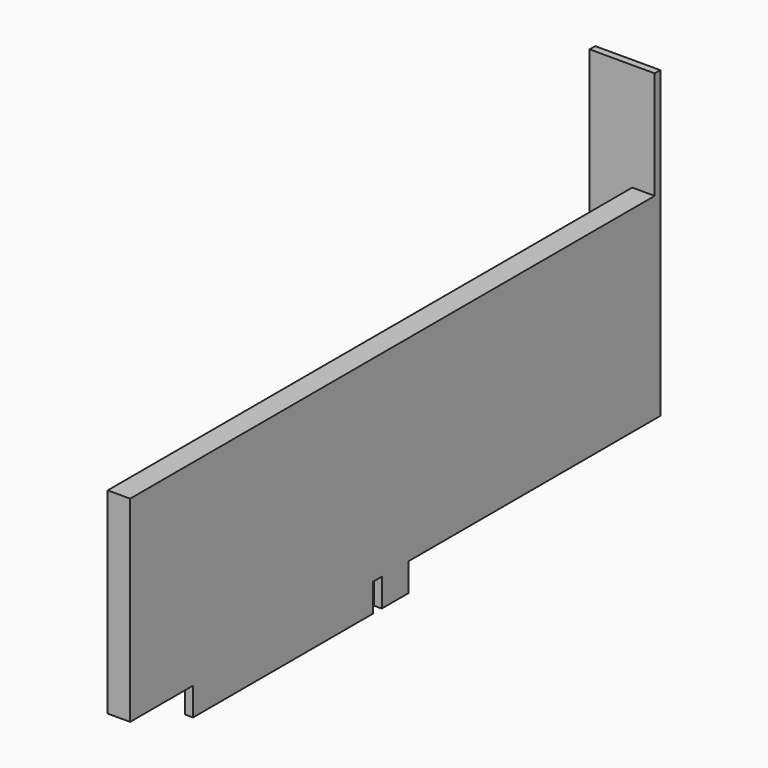
from build123d import *

# Parameters (mm, degrees)
F0_W     = 5.08
F0_H     = 44.449404
F1_DEPTH = 149.86
F2_DEPTH = 1.5875
F3_W     = 7.62
F3_H     = 6.35
F3_W_2   = 50.8
F4_DEPTH = 1.778
F5_R     = 16.3195
F6_DEPTH = 6.096


with BuildPart() as f1:
    # F0 (on Front) → F1 (new body)
    with BuildSketch(Plane.XZ):
        with Locations((-2.54, 22.224702)):
            Rectangle(F0_W, F0_H)
    extrude(amount=F1_DEPTH)

    # F0 (on Front) → F2 (join)
    with BuildSketch(Plane.XZ):
        Polygon((-14.732, 0), (-5.08, 0), (-5.08, 44.449404), (0, 44.449404), (0, 68.834), (-14.732, 68.834), align=None)
    extrude(amount=F2_DEPTH)

    # F3 (on face) → F4 (join)
    with BuildSketch(Plane.YZ):
        with Locations((-74.93, -3.175)):
            Rectangle(F3_W, F3_H)
        with Locations((-106.68, -3.175)):
            Rectangle(F3_W_2, F3_H)
    extrude(amount=-F4_DEPTH)

    # F5 (on face) → F6 (join)
    with BuildSketch(Plane(origin=(-5.08, 0, 0), x_dir=(0, -1, 0), z_dir=(-1, 0, 0))):
        with Locations((115.7605, 22.224702)):
            Circle(F5_R)
    extrude(amount=F6_DEPTH)


solid = f1.part
